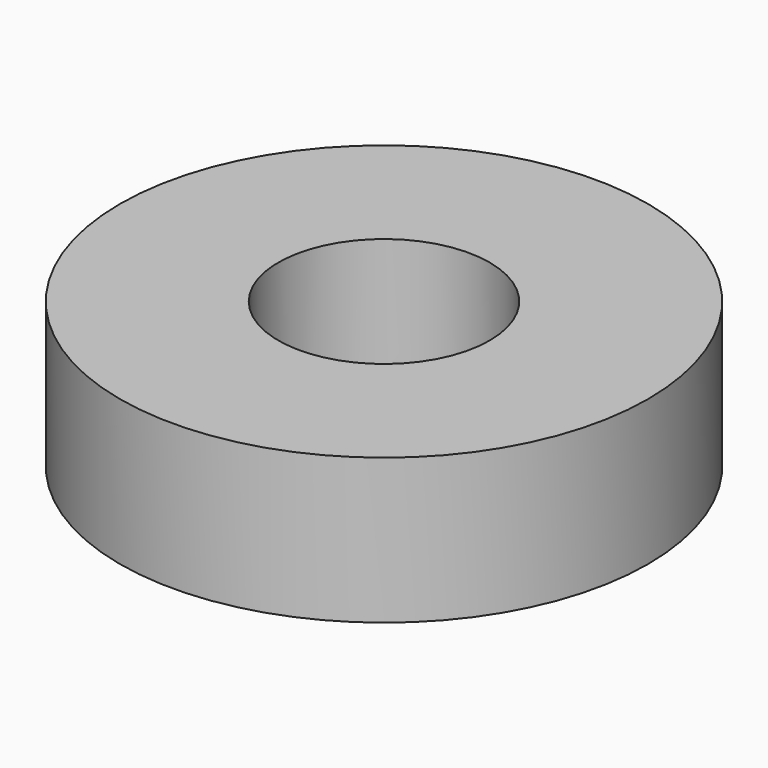
from build123d import *

# Parameters (mm, degrees)
CYLINDER014_R     = 1.6
CYLINDER014_DEPTH = 6
CYLINDER018_R     = 4
CYLINDER018_DEPTH = 2.2


with BuildPart() as cylinder011:
    # Cylinder014 → Cylinder014 (new body)
    with BuildSketch(Plane(origin=(-5, 10.6, 0), x_dir=(1, 0, 0), z_dir=(0, 0, 1))):
        Circle(CYLINDER014_R)
    extrude(amount=CYLINDER014_DEPTH)


with BuildPart() as washer:
    # Cylinder018 → Cylinder018 (new body)
    with BuildSketch(Plane(origin=(-5, 10.6, 0), x_dir=(1, 0, 0), z_dir=(0, 0, 1))):
        Circle(CYLINDER018_R)
    extrude(amount=CYLINDER018_DEPTH)

    # Cut001005: cut Cylinder011
    add(cylinder011.part, mode=Mode.SUBTRACT)


solid = washer.part
